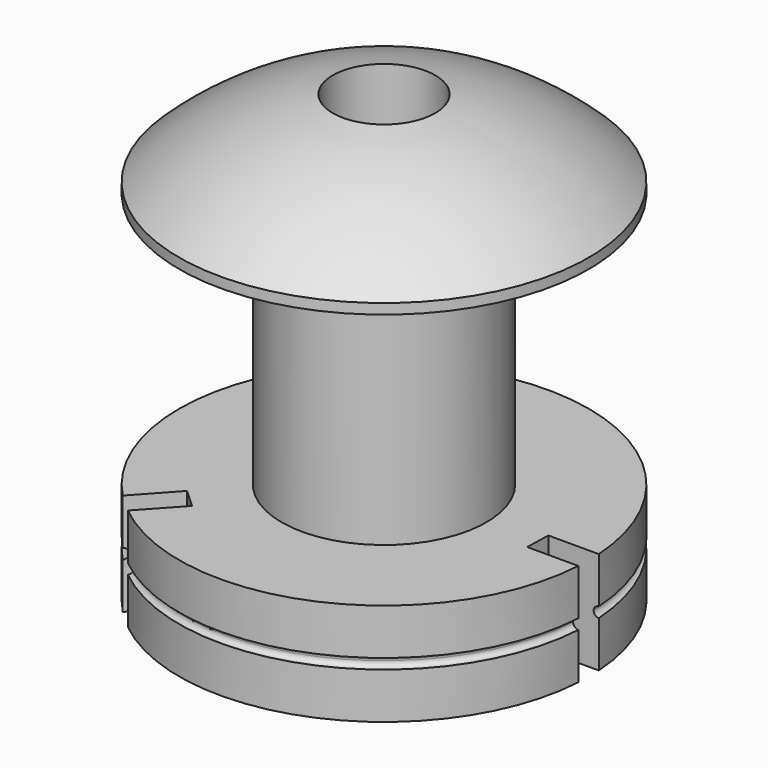
from build123d import *

# Parameters (mm, degrees)
F2_R     = 5
F3_DEPTH = 43.9649
F4_R     = 6
F5_DEPTH = 25


with BuildPart() as f1:
    # F0 (on Front) → F1 (revolve)
    with BuildSketch(Plane.XZ):
        with BuildLine():
            Line((0, 4.5), (0, 0))
            Line((0, 0), (20, 0))
            Line((20, 0), (20, 43.964899))
            ThreePointArc((20, 43.964899), (9.236176, 41.900424), (0, 36))
            Line((0, 36), (0, 35))
            Line((0, 35), (10, 35))
            Line((10, 35), (10, 10))
            Line((10, 10), (0, 10))
            Line((0, 10), (0, 5.5))
            ThreePointArc((0, 5.5), (0.353553, 5.353553), (0.5, 5))
            ThreePointArc((0.5, 5), (0.353553, 4.646447), (0, 4.5))
        make_face()
    revolve(axis=Axis((20, 0, 21.982449), (0, 0, 1)))

    # F2 (on face) → F3 (cut)
    with BuildSketch(Plane(origin=(0, 0, 0), x_dir=(1, 0, 0), z_dir=(0, 0, -1))):
        with Locations((20, 0)):
            Circle(F2_R)
    extrude(amount=-F3_DEPTH, mode=Mode.SUBTRACT)

    # F4 (on face) → F5 (cut)
    with BuildSketch(Plane(origin=(0, 0, 0), x_dir=(1, 0, 0), z_dir=(0, 0, -1))):
        with Locations((20, 0)):
            Circle(F4_R)
        Polygon((8.944216, 10.214311), (10.787355, 11.903347), (6.733669, 16.326878), (4.890531, 14.637843), align=None)
        Polygon((35.039323, -1.249084), (41.039323, -1.249084), (40.971649, 1.25), (34.971649, 1.25), align=None)
        Polygon((9.032436, -10.308979), (5.016928, -14.767196), (6.874519, -16.440324), (10.890026, -11.982107), align=None)
    extrude(amount=-F5_DEPTH, mode=Mode.SUBTRACT)


solid = f1.part
